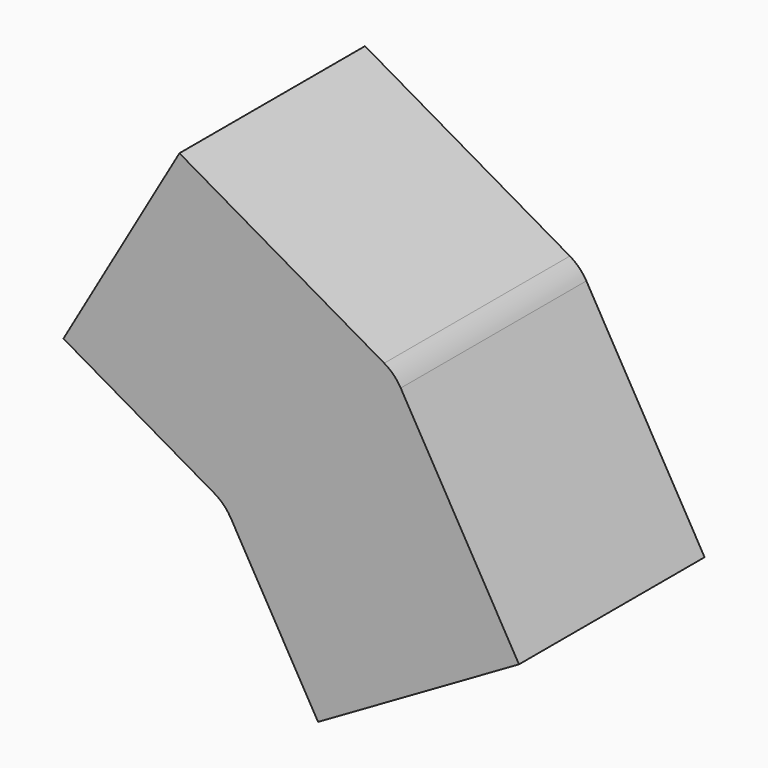
from build123d import *

# Parameters (mm, degrees)
F1_DEPTH = 25.7
F2_W     = 20.5
F2_H     = 20.5
F3_DEPTH = 20
F4_W     = 20.5
F4_H     = 20.5
F5_DEPTH = 20


with BuildPart() as f1:
    # F0 (on Front) → F1 (new body)
    with BuildSketch(Plane.XZ):
        with BuildLine():
            Line((0.6698729811, -1.1602540378), (10.3245955671, -17.8827240898))
            Line((10.3245955671, -17.8827240898), (32.5814484444, -5.0327240898))
            Line((32.5814484444, -5.0327240898), (19.4835787356, 17.6534517167))
            ThreePointArc((19.4835787356, 17.6534517167), (18.6889856226, 18.6889856226), (17.6534517167, 19.4835787356))
            Line((17.6534517167, 19.4835787356), (-5.0327240898, 32.5814484444))
            Line((-5.0327240898, 32.5814484444), (-17.8827240898, 10.3245955671))
            Line((-17.8827240898, 10.3245955671), (-1.1602540378, 0.6698729811))
            ThreePointArc((-1.1602540378, 0.6698729811), (-0.1247201319, -0.1247201319), (0.6698729811, -1.1602540378))
        make_face()
    extrude(amount=F1_DEPTH)

    # F2 (on face) → F3 (cut)
    with BuildSketch(Plane(origin=(-17.8827240898, 0, 10.3245955671), x_dir=(0, -1, 0), z_dir=(-0.8660254038, 0, 0.5))):
        with Locations((12.85, 12.85)):
            Rectangle(F2_W, F2_H)
    extrude(amount=-F3_DEPTH, mode=Mode.SUBTRACT)

    # F4 (on face) → F5 (cut)
    with BuildSketch(Plane(origin=(10.3245955671, 0, -17.8827240898), x_dir=(0.8660254038, 0, 0.5), z_dir=(0.5, 0, -0.8660254038))):
        with Locations((12.85, 12.85)):
            Rectangle(F4_W, F4_H)
    extrude(amount=-F5_DEPTH, mode=Mode.SUBTRACT)


solid = f1.part
